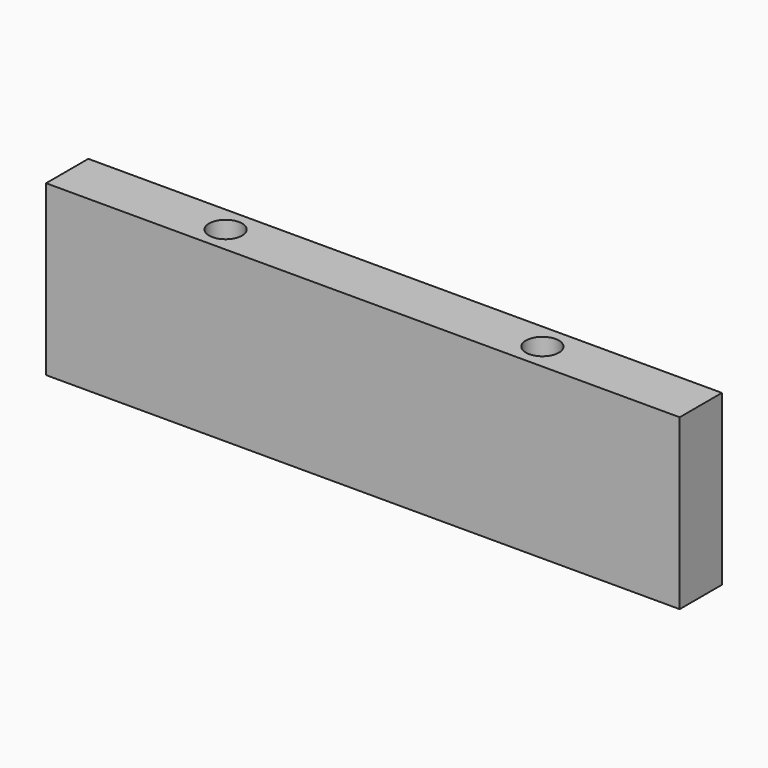
from build123d import *

# Parameters (mm, degrees)
F0_W           = 190.5
F0_H           = 15.875
F1_DEPTH       = 101.6
F3_D           = 12.7
F3_CBORE_D     = 19.84375
F3_CBORE_DEPTH = 12.7


with BuildPart() as f1:
    # F0 (on Top) → F1 (new body)
    with BuildSketch(Plane.XY):
        with Locations((95.25, 7.9375)):
            Rectangle(F0_W, F0_H)
        with Locations((-95.25, 7.9375)):
            Rectangle(F0_W, F0_H)
        with Locations((95.25, -7.9375)):
            Rectangle(F0_W, F0_H)
        with Locations((-95.25, -7.9375)):
            Rectangle(F0_W, F0_H)
    extrude(amount=F1_DEPTH)

    # F3 (through all)
    with Locations(Plane.XY.offset(101.6)):
        with Locations((-95.25, 0), (95.25, 0)):
            CounterBoreHole(F3_D / 2, F3_CBORE_D / 2, F3_CBORE_DEPTH)


solid = f1.part
